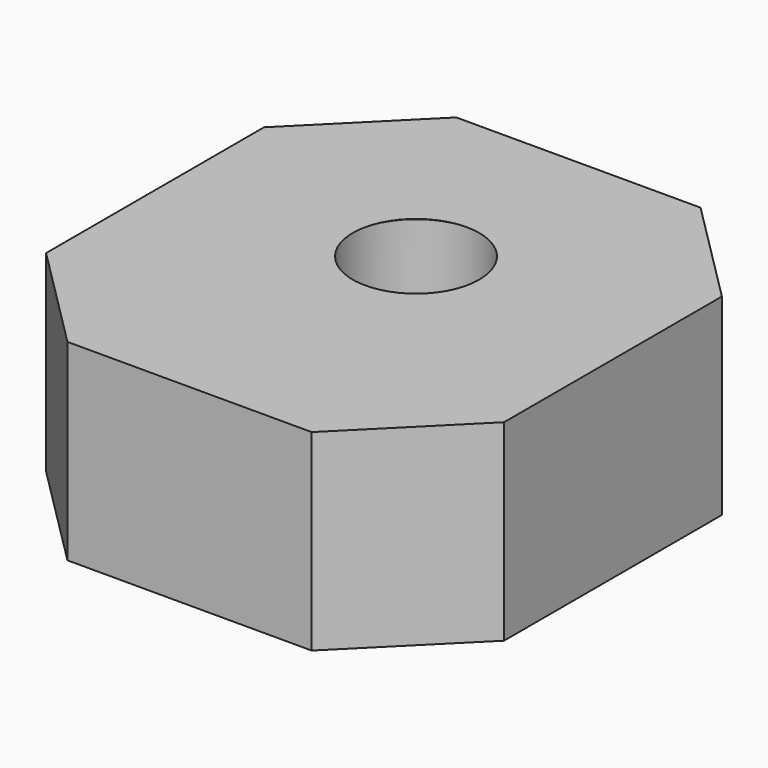
from build123d import *

# Parameters (mm, degrees)
F1_DEPTH = 6.3
F3_D     = 4.4
F3_DEPTH = 6.223
F3_TIP   = 1.3218933619


with BuildPart() as f1:
    # F0 (on Top) → F1 (new body)
    with BuildSketch(Plane.XY):
        Polygon((4, 8.4201077782), (-4, 8.4201077782), (-7.5, 4.9201077782), (-7.5, -4), (-4, -7.5), (4, -7.5), (7.5, -4), (7.5, 4.9201077782), align=None)
    extrude(amount=F1_DEPTH)

    # F3
    with Locations(Plane(origin=(0, 0, 0), x_dir=(1, 0, 0), z_dir=(0, 0, -1))):
        with Locations((0, -1.7701077782)):
            Hole(F3_D / 2, depth=F3_DEPTH)
            with Locations((0, 0, -(F3_DEPTH + F3_TIP / 2))):  # 118° drill point
                Cone(0, F3_D / 2, F3_TIP, mode=Mode.SUBTRACT)


solid = f1.part
